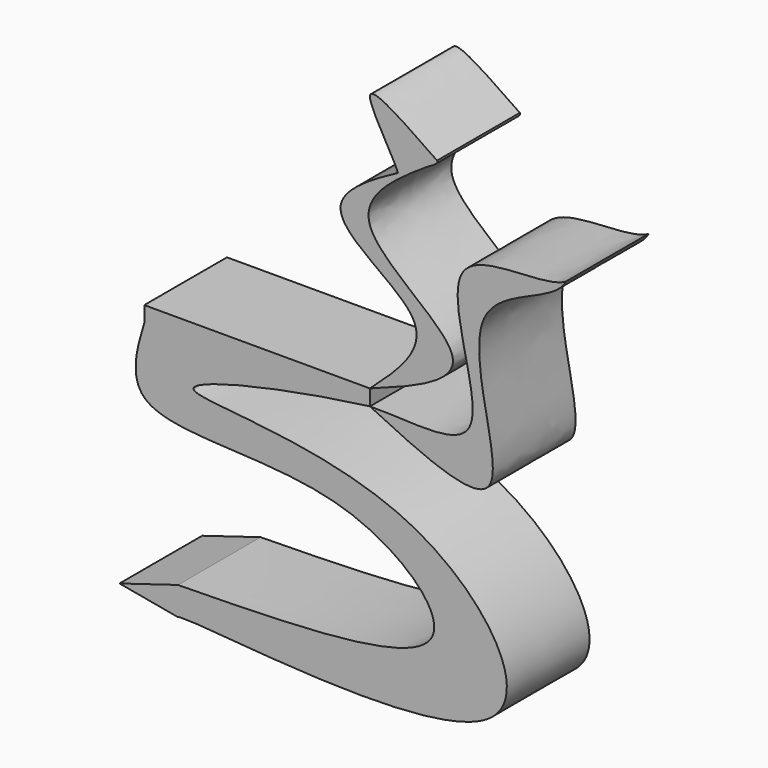
from build123d import *

# Parameters (mm, degrees)
F1_DEPTH = 25.4


with BuildPart() as f1:
    # F0 (on Front) → F1 (new body)
    with BuildSketch(Plane.XZ):
        Polygon((0, -3.8830188569), (0, 0), (-32.8095592558, 0), (-55.4321408272, 0), (-55.4321408272, -3.8830188569), align=None)
        with BuildLine():
            add(Edge.make_bspline(
                [(0, -3.8830188569), (-22.3396686658, -6.7664181524), (-69.1084861348, -18.0619450276), (14.4702420451, -14.0383646496), (56.9721506391, -79.2245772506), (-44.3638130855, -63.3925810669), (-47.1661984921, -64.7899731994)],
                knots=[0, 0, 0, 0, 0.2235680847, 0.4706858224, 0.6844928274, 0.9778929424, 0.9778929424, 0.9778929424, 0.9778929424], degree=3))
            Line((0, -3.8830188569), (-55.4321408272, -3.8830188569))
            add(Edge.make_bspline(
                [(-55.4321408272, -3.8830188569), (-57.1473305919, -9.3609467626), (-62.6130160741, -28.5448533445), (-6.4024398502, -19.3013166153), (33.1327371883, -56.7449307054), (-17.9986081788, -57.3881984987), (-47.1661984921, -57.8291714191)],
                knots=[0, 0, 0, 0, 0.1638297062, 0.4494384528, 0.6749290673, 1, 1, 1, 1], degree=3))
            add(Edge.make_bspline(
                [(-47.1661984921, -57.8291714191), (-47.1661984921, -60.1494386792), (-47.1661984921, -62.4697059393), (-47.1661984921, -64.7899731994)],
                knots=[0, 0, 0, 0, 6.9608017802, 6.9608017802, 6.9608017802, 6.9608017802], degree=3))
        make_face()
        with BuildLine():
            Line((-61.522834003, -62.1796660125), (-47.1661984921, -64.7899731994))
            add(Edge.make_bspline(
                [(-47.1661984921, -57.8291714191), (-47.1661984921, -60.1494386792), (-47.1661984921, -62.4697059393), (-47.1661984921, -64.7899731994)],
                knots=[0, 0, 0, 0, 6.9608017802, 6.9608017802, 6.9608017802, 6.9608017802], degree=3))
            Line((-47.1661984921, -57.8291714191), (-61.522834003, -62.1796660125))
        make_face()
    extrude(amount=F1_DEPTH)


with BuildPart() as f1b:
    # F0 (on Front) → F1, piece 2 (new body)
    with BuildSketch(Plane.XZ):
        with BuildLine():
            add(Edge.make_bspline(
                [(0, -3.8830188569), (9.9289465404, -3.6338687787), (35.8347748597, -9.1910474421), (9.7993757977, 42.4850067761), (42.4191825597, 35.4199321557), (48.1096766889, 38.751848042)],
                knots=[0, 0, 0, 0, 0.3158370182, 0.677663788, 1, 1, 1, 1], degree=3))
            add(Edge.make_bspline(
                [(0, -3.8830188569), (12.3079884685, -9.8806879625), (41.3757800869, -24.0609993996), (15.8388542517, 31.6190019918), (45.2003145758, 32.9629019724), (48.1096766889, 38.751848042)],
                knots=[0, 0, 0, 0, 0.334850925, 0.698196314, 1, 1, 1, 1], degree=3))
        make_face()
    extrude(amount=F1_DEPTH)


with BuildPart() as f1c:
    # F0 (on Front) → F1, piece 3 (new body)
    with BuildSketch(Plane.XZ):
        with BuildLine():
            add(Edge.make_bspline(
                [(0, 0), (6.8867195335, 6.2206273049), (21.4241070417, 19.351940296), (-17.1808047998, 34.2671980223), (-0.4350416223, 44.886293105), (5.3342361736, 47.9833388277)],
                knots=[0, 0, 0, 0, 0.2875572081, 0.6070133312, 0.7846319848, 0.7846319848, 0.7846319848, 0.7846319848], degree=3))
            add(Edge.make_bspline(
                [(0, 0), (10.8050769677, 3.9557167918), (33.5465950735, 12.2813405065), (-11.1611995644, 34.7868953378), (5.5361510143, 46.950767387), (13.9666379964, 52.4372129067)],
                knots=[0, 0, 0, 0, 0.3210692379, 0.6757565827, 0.9722206742, 0.9722206742, 0.9722206742, 0.9722206742], degree=3))
            add(Edge.make_bspline(
                [(6.8849208153, 48.8031134544), (9.6084625056, 50.2230197913), (12.1695910081, 51.4654057539), (13.9666379964, 52.4372129067)],
                knots=[0.8006403858, 0.8006403858, 0.8006403858, 0.8006403858, 0.8857159052, 0.8857159052, 0.8857159052, 0.8857159052], degree=3))
            add(Edge.make_bspline(
                [(6.8849208153, 48.8031134544), (7.0058713252, 48.451220393), (7.2493558454, 47.2965846459), (6.160167473, 47.6871631986), (5.3342361736, 47.9833388277)],
                knots=[0.8222427967, 0.8222427967, 0.8222427967, 0.8222427967, 0.8652067524, 1, 1, 1, 1], degree=3))
        make_face()
        with BuildLine():
            add(Edge.make_bspline(
                [(5.3342361736, 47.9833388277), (5.8542092197, 48.2624691375), (6.3724402832, 48.5359340102), (6.8849208153, 48.8031134544)],
                knots=[0.7846319848, 0.7846319848, 0.7846319848, 0.7846319848, 0.8006403858, 0.8006403858, 0.8006403858, 0.8006403858], degree=3))
            add(Edge.make_bspline(
                [(6.8849208153, 48.8031134544), (7.0058713252, 48.451220393), (7.2493558454, 47.2965846459), (6.160167473, 47.6871631986), (5.3342361736, 47.9833388277)],
                knots=[0.8222427967, 0.8222427967, 0.8222427967, 0.8222427967, 0.8652067524, 1, 1, 1, 1], degree=3))
        make_face()
        with BuildLine():
            add(Edge.make_bspline(
                [(13.9666379964, 52.4372129067), (14.7565928395, 52.9513047046), (15.5538203714, 53.464942843), (16.3510479033, 53.9785809815)],
                knots=[0.9722206742, 0.9722206742, 0.9722206742, 0.9722206742, 1, 1, 1, 1], degree=3))
            add(Edge.make_bspline(
                [(13.9666379964, 52.4372129067), (15.1501204646, 53.0772166101), (16.0022090524, 53.5998661307), (16.3510479033, 53.9785809815)],
                knots=[0.8857159052, 0.8857159052, 0.8857159052, 0.8857159052, 0.9417441484, 0.9417441484, 0.9417441484, 0.9417441484], degree=3))
        make_face()
        with BuildLine():
            add(Edge.make_bspline(
                [(6.8849208153, 48.8031134544), (9.6084625056, 50.2230197913), (12.1695910081, 51.4654057539), (13.9666379964, 52.4372129067)],
                knots=[0.8006403858, 0.8006403858, 0.8006403858, 0.8006403858, 0.8857159052, 0.8857159052, 0.8857159052, 0.8857159052], degree=3))
            add(Edge.make_bspline(
                [(13.9666379964, 52.4372129067), (14.7565928395, 52.9513047046), (15.5538203714, 53.464942843), (16.3510479033, 53.9785809815)],
                knots=[0.9722206742, 0.9722206742, 0.9722206742, 0.9722206742, 1, 1, 1, 1], degree=3))
            add(Edge.make_bspline(
                [(16.3510479033, 53.9785809815), (16.6073316231, 54.2568138975), (16.5919864898, 54.4573581304), (16.4969410267, 54.6351072384)],
                knots=[0.9417441484, 0.9417441484, 0.9417441484, 0.9417441484, 0.9829067843, 0.9829067843, 0.9829067843, 0.9829067843], degree=3))
            add(Edge.make_bspline(
                [(16.4969410267, 54.6351072384), (8.2717965897, 60.3386520901), (-6.9397755805, 70.8789368702), (5.8208400435, 51.8989469536), (6.8849208153, 48.8031134544)],
                knots=[0.0006375287, 0.0006375287, 0.0006375287, 0.0006375287, 0.4442607669, 0.8222427967, 0.8222427967, 0.8222427967, 0.8222427967], degree=3))
        make_face()
    extrude(amount=F1_DEPTH)


solid = Compound([f1.part, f1b.part, f1c.part])
